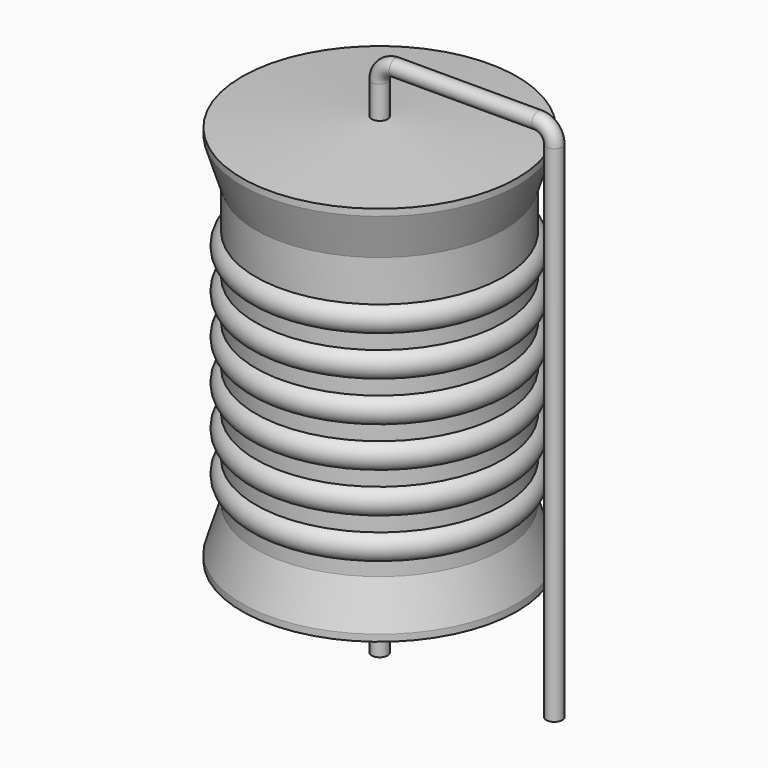
from build123d import *

# Parameters (mm, degrees)
SKETCH_R = 0.35


with BuildPart() as revolution:
    # Sketch002 → Revolution (revolve)
    with BuildSketch(Plane.XZ):
        Polygon((0, 0.1), (0, 17.6), (0.2625, 17.6), (6, 17.1625), (6, 16.87), (5.4, 14.975), (5.4, 2.725), (6, 0.83), (6, 0.5375), (0.2625, 0.1), align=None)
    revolve(axis=Axis((0, 0, 0), (0, 0, 1)))


with BuildPart() as revolution001:
    # Sketch003 → Revolution001 (revolve)
    with BuildSketch(Plane.XZ):
        with BuildLine():
            Line((4.8, 13.775), (4.8, 2.725))
            Line((4.8, 2.725), (5.16, 2.725))
            Line((5.16, 2.725), (5.16, 3.275))
            ThreePointArc((5.16, 3.275), (5.76, 3.875), (5.16, 4.475))
            Line((5.16, 4.475), (5.16, 5.025))
            ThreePointArc((5.16, 5.025), (5.76, 5.625), (5.16, 6.225))
            Line((5.16, 6.225), (5.16, 6.775))
            ThreePointArc((5.16, 6.775), (5.76, 7.375), (5.16, 7.975))
            Line((5.16, 7.975), (5.16, 8.525))
            ThreePointArc((5.16, 8.525), (5.76, 9.125), (5.16, 9.725))
            Line((5.16, 9.725), (5.16, 10.275))
            ThreePointArc((5.16, 10.275), (5.76, 10.875), (5.16, 11.475))
            Line((5.16, 11.475), (5.16, 12.025))
            ThreePointArc((5.16, 12.025), (5.76, 12.625), (5.16, 13.225))
            Line((5.16, 13.775), (5.16, 13.225))
            Line((4.8, 13.775), (5.16, 13.775))
        make_face()
    revolve(axis=Axis((0, 0, 0), (0, 0, 1)))


with BuildPart() as obj1:
    # Sweep: sweep along a path in Sketch001
    with BuildLine(Plane.XZ) as sweep_path:
        Line((0, -3), (0, 19))
        ThreePointArc((0, 19), (0.205023, 19.494972), (0.699993, 19.7))
        Line((0.699993, 19.7), (6.92, 19.7))
        ThreePointArc((6.92, 19.7), (7.414975, 19.494975), (7.62, 19))
        Line((7.62, 19), (7.62, -3))
    # Sketch → Sweep (sweep)
    with BuildSketch(Plane.XY.offset(-2)):
        Circle(SKETCH_R)
    sweep(path=sweep_path.line)

    # obj1: union Revolution, Revolution001
    add(revolution.part)
    add(revolution001.part)


solid = obj1.part
